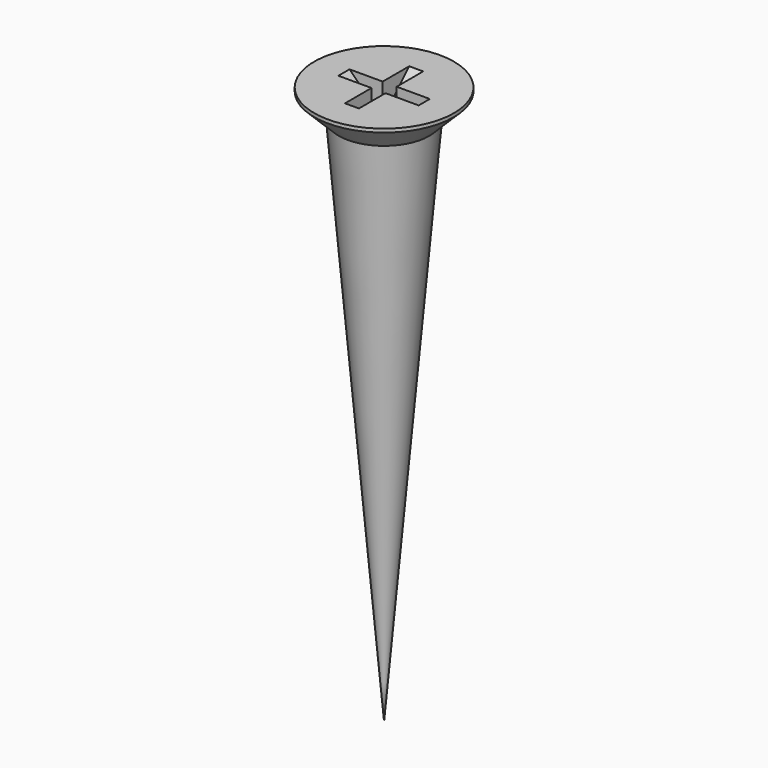
from build123d import *

# Parameters (mm, degrees)
POCKET001_DEPTH    = 0.2
POLARPATTERN_COUNT = 2
POLARPATTERN_ANGLE = 90


with BuildPart() as part:
    # Sketch019 → Revolution003 (revolve)
    with BuildSketch(Plane.XZ):
        Polygon((0, 0), (0, -16), (1.3, -0.8), (2, -0.1), (2, 0), align=None)
    revolve(axis=Axis((0, 0, 0), (0, 0, 1)))

    # Sketch020 → Pocket001 (cut, symmetric)
    with BuildSketch(Plane.XZ):
        Polygon((-1.15, 0), (0, -1.15), (1.15, 0), align=None)
    pocket001 = extrude(amount=POCKET001_DEPTH, both=True, mode=Mode.SUBTRACT)

    # PolarPattern: Pocket001 ×2 about axis
    polarpattern_axis = Axis((0, 0, 0), (0, 0, 1))
    for i in range(1, POLARPATTERN_COUNT):
        add(pocket001.rotate(polarpattern_axis, i * POLARPATTERN_ANGLE / (POLARPATTERN_COUNT - 1)), mode=Mode.SUBTRACT)


with BuildPart() as part_1:
    # Body005 placement: moved
    add(part.part.moved(Location((17.5, -8, -0.5))))


solid = part_1.part
